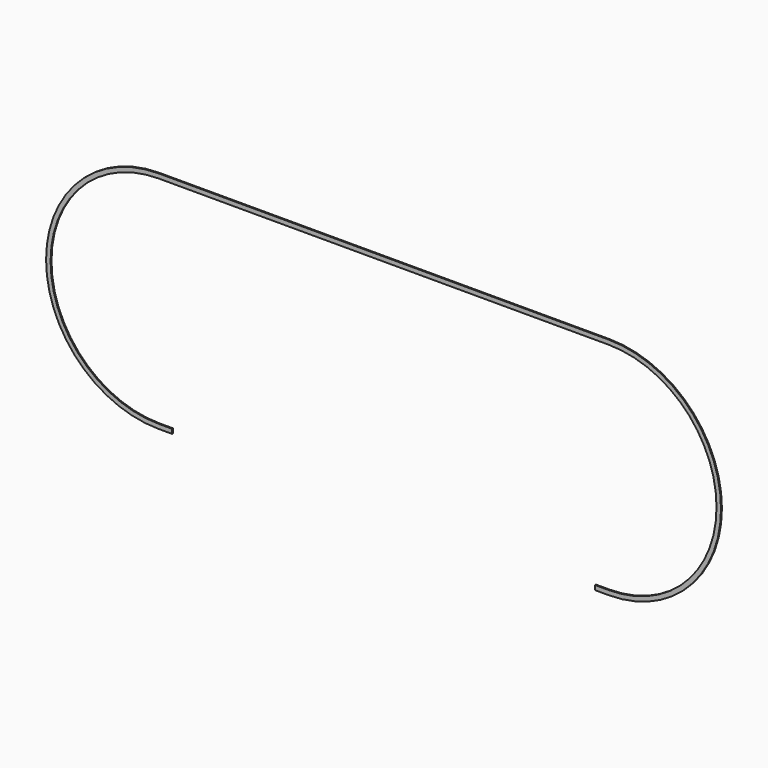
from build123d import *

# Parameters (mm, degrees)
F0_W     = 2000
F0_H     = 20
F0_W_2   = 60
F1_DEPTH = 5


with BuildPart() as f1:
    # F0 (on Front) → F1 (new body)
    with BuildSketch(Plane.XZ):
        Rectangle(F0_W, F0_H)
        with BuildLine():
            Line((-1000, -10), (-1000, 10))
            ThreePointArc((-1000, 10), (-1500, -490), (-1000, -990))
            Line((-1000, -990), (-940, -990))
            Line((-940, -990), (-940, -970))
            Line((-940, -970), (-1000, -970))
            ThreePointArc((-1000, -970), (-1480, -490), (-1000, -10))
        make_face()
        with BuildLine():
            ThreePointArc((1000, -990), (1500, -490), (1000, 10))
            Line((1000, 10), (1000, -10))
            ThreePointArc((1000, -10), (1480, -490), (1000, -970))
            Line((1000, -970), (1000, -990))
        make_face()
        with Locations((970, -980)):
            Rectangle(F0_W_2, F0_H)
    extrude(amount=F1_DEPTH)


solid = f1.part
